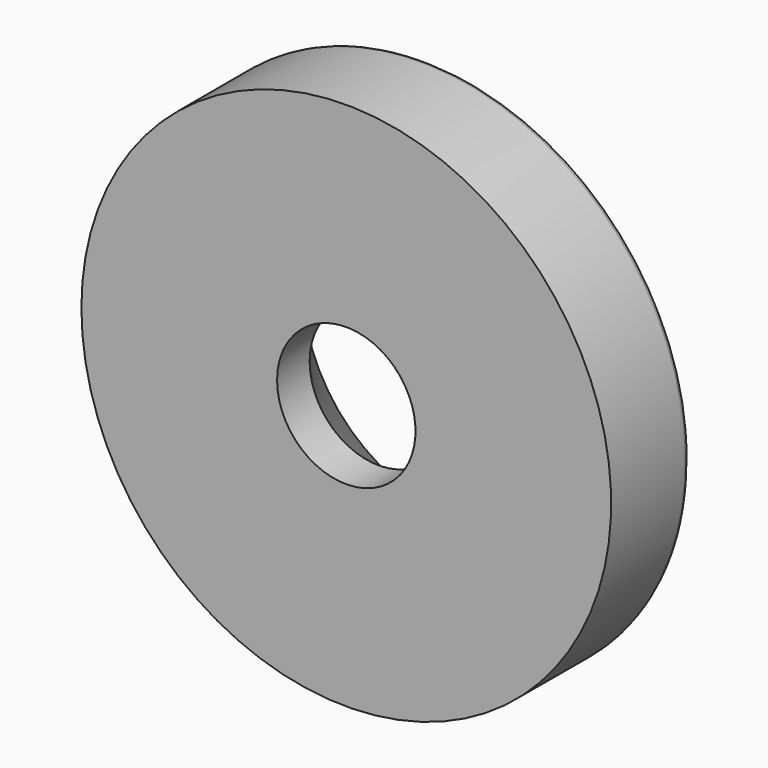
from build123d import *

# Parameters (mm, degrees)
F2_R = 0.254


with BuildPart() as f1:
    # F0 (on Top) → F1 (revolve)
    with BuildSketch(Plane.XY):
        Polygon((-12.3952, 0), (-3.2385, 0), (-3.2385, 1.905), (-7.10248, 6.35), (-10.203748, 6.35), (-12.3952, 4.445), align=None)
    revolve(axis=Axis((0, 4.669294, 0), (0, 1, 0)))

    # F2
    f2_edges = [f1.edges().sort_by_distance(p)[0] for p in [
        (12.3952, 4.445, 0),
        (10.203748, 6.35, 0),
    ]]
    fillet(f2_edges, radius=F2_R)


solid = f1.part
